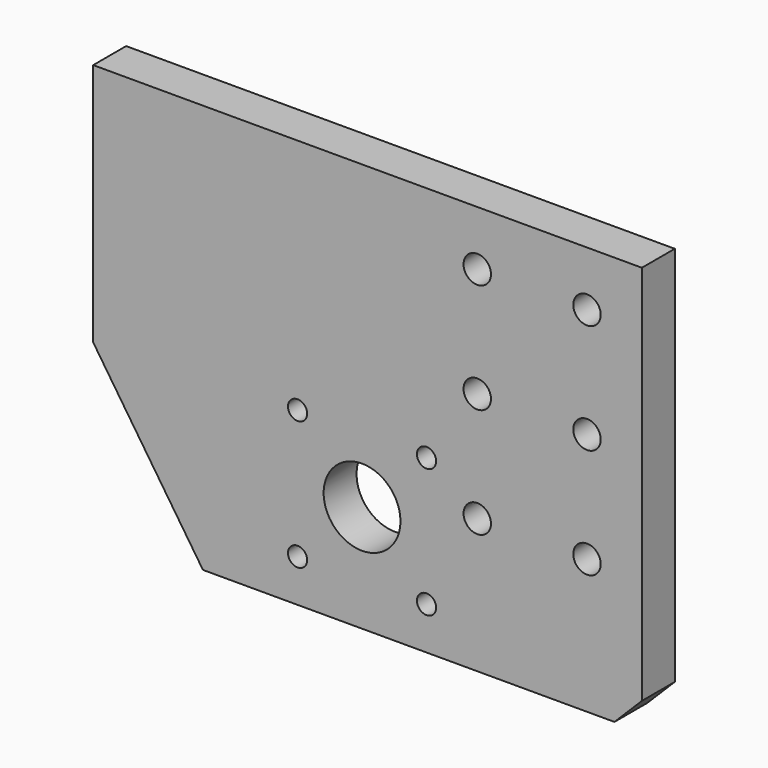
from build123d import *

# Parameters (mm, degrees)
F0_R     = 3.5
F0_R_2   = 14
F0_R_3   = 5
F1_DEPTH = 15


with BuildPart() as f1:
    # F0 (on Front) → F1 (new body)
    with BuildSketch(Plane.XZ):
        Polygon((67.647059, -64.529412), (77.647059, -54.529412), (77.647059, 84.470588), (-122.352941, 84.470588), (-122.352941, -4.529412), (-82.352941, -64.529412), align=None)
        with Locations((-47.852941, -49.029412)):
            Circle(F0_R, mode=Mode.SUBTRACT)
        with Locations((-24.352941, -25.529412)):
            Circle(F0_R_2, mode=Mode.SUBTRACT)
        with Locations((-47.852941, -2.029412)):
            Circle(F0_R, mode=Mode.SUBTRACT)
        with Locations((-0.852941, -49.029412)):
            Circle(F0_R, mode=Mode.SUBTRACT)
        with Locations((17.647059, -15.529412)):
            Circle(F0_R_3, mode=Mode.SUBTRACT)
        with Locations((-0.852941, -2.029412)):
            Circle(F0_R, mode=Mode.SUBTRACT)
        with Locations((57.647059, -15.529412)):
            Circle(F0_R_3, mode=Mode.SUBTRACT)
        with Locations((17.647059, 24.470588)):
            Circle(F0_R_3, mode=Mode.SUBTRACT)
        with Locations((57.647059, 24.470588)):
            Circle(F0_R_3, mode=Mode.SUBTRACT)
        with Locations((17.647059, 64.470588)):
            Circle(F0_R_3, mode=Mode.SUBTRACT)
        with Locations((57.647059, 64.470588)):
            Circle(F0_R_3, mode=Mode.SUBTRACT)
    extrude(amount=F1_DEPTH)


solid = f1.part
